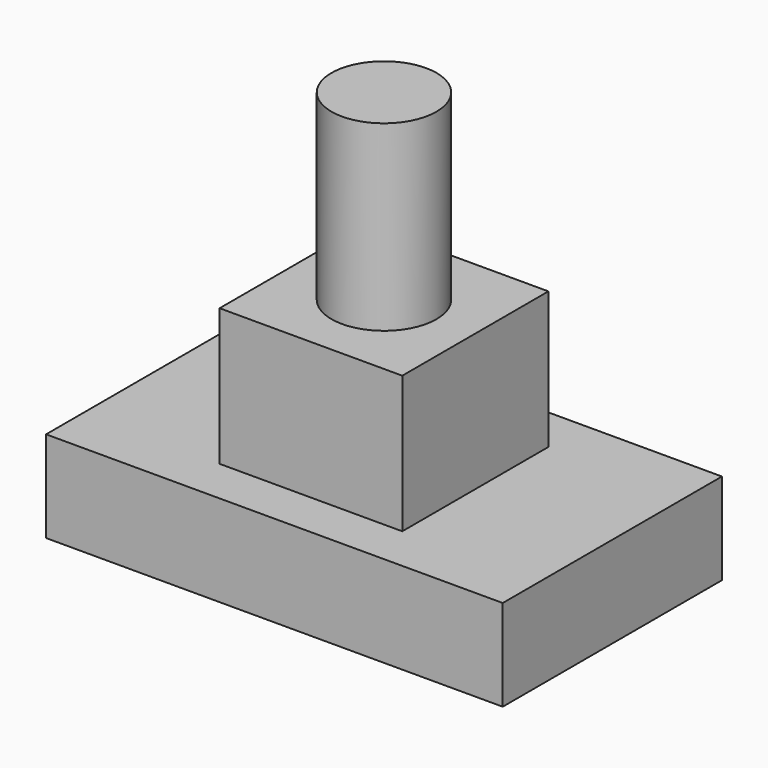
from build123d import *

# Parameters (mm, degrees)
F0_R     = 1.15
F1_DEPTH = 4
F0_W     = 4
F0_H     = 4
F2_DEPTH = 3.2
F4_START = -3
F3_W     = 10
F3_H     = 6
F4_DEPTH = 2


with BuildPart() as f1:
    # F0 (on Top) → F1 (new body, symmetric)
    with BuildSketch(Plane.XY):
        Circle(F0_R)
    extrude(amount=F1_DEPTH, both=True)

    # F0 (on Top) → F2 (join)
    with BuildSketch(Plane.XY):
        Rectangle(F0_W, F0_H)
        Circle(F0_R, mode=Mode.SUBTRACT)
        Circle(F0_R)
    extrude(amount=-F2_DEPTH)

    # F3 (on Top) → F4 (join)
    with BuildSketch(Plane.XY.offset(F4_START)):
        Rectangle(F3_W, F3_H)
    extrude(amount=-F4_DEPTH)


solid = f1.part
